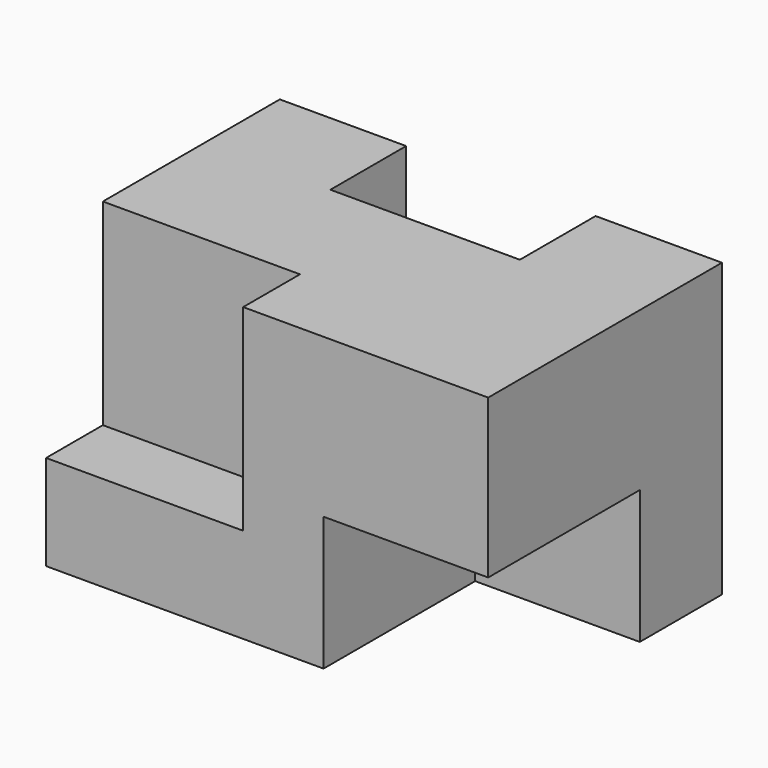
from build123d import *

# Parameters (mm, degrees)
F1_DEPTH = 37.0078
F2_W     = 24.9682
F2_H     = 8.9916
F3_DEPTH = 24.9428
F4_W     = 24.003
F4_H     = 16.9418
F5_DEPTH = 20.8534


with BuildPart() as f1:
    # F0 (on Top) → F1 (new body)
    with BuildSketch(Plane.XY):
        Polygon((0, 37.0078), (0, 0), (56.007, 0), (56.007, 37.0078), (40.005, 37.0078), (40.005, 25.019), (16.002, 25.019), (16.002, 37.0078), align=None)
    extrude(amount=F1_DEPTH)

    # F2 (on face) → F3 (cut)
    with BuildSketch(Plane.XY.offset(37.0078)):
        with Locations((12.4841, 4.4958)):
            Rectangle(F2_W, F2_H)
    extrude(amount=-F3_DEPTH, mode=Mode.SUBTRACT)

    # F4 (on face) → F5 (cut)
    with BuildSketch(Plane.YZ.offset(56.007)):
        with Locations((12.0015, 8.4709)):
            Rectangle(F4_W, F4_H)
    extrude(amount=-F5_DEPTH, mode=Mode.SUBTRACT)


solid = f1.part
